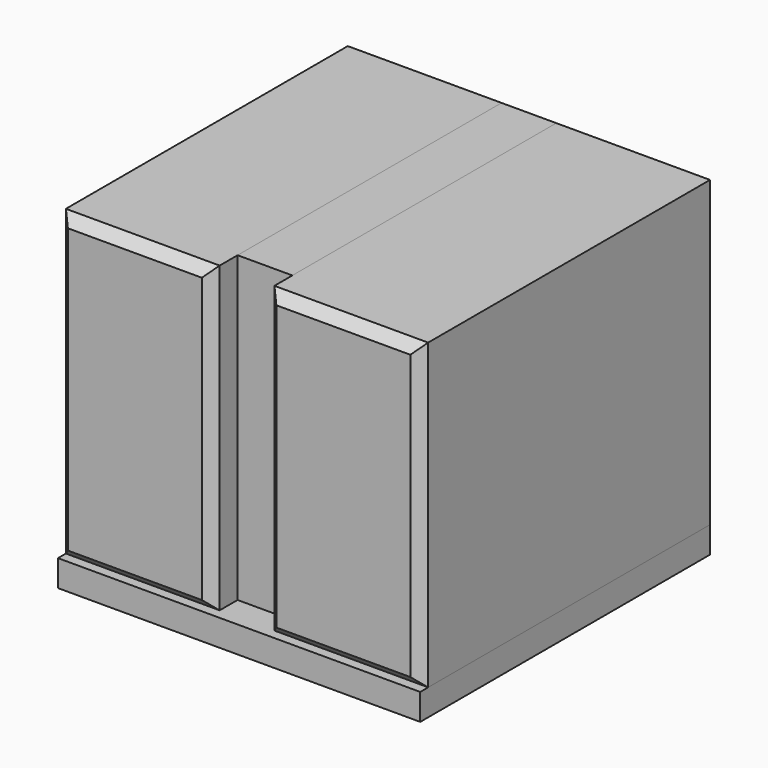
from build123d import *

# Parameters (mm, degrees)
F0_W     = 549
F0_H     = 549
F1_DEPTH = 40
F2_W     = 233
F2_H     = 549
F3_DEPTH = 460
F4_SIZE  = 15
F5_W     = 500
F5_H     = 460
F5_W_2   = 464
F5_H_2   = 424
F6_DEPTH = 83
F8_START = -26
F7_W     = 472
F7_H     = 432
F8_DEPTH = 4


with BuildPart() as f1:
    # F0 (on Top) → F1 (new body)
    with BuildSketch(Plane.XY):
        Rectangle(F0_W, F0_H)
    extrude(amount=F1_DEPTH)


with BuildPart() as f3:
    # F2 (on face) → F3 (new body)
    with BuildSketch(Plane.XY.offset(40)):
        with Locations((-158, 0)):
            Rectangle(F2_W, F2_H)
        with Locations((158, 0)):
            Rectangle(F2_W, F2_H)
    extrude(amount=F3_DEPTH)

    # F4
    f4_edges = [f3.edges().sort_by_distance(p)[0] for p in [
        (41.5, -274.5, 270),
        (274.5, -274.5, 270),
        (158, -274.5, 40),
        (158, -274.5, 500),
        (-274.5, -274.5, 270),
        (-41.5, -274.5, 270),
        (-158, -274.5, 40),
        (-158, -274.5, 500),
    ]]
    chamfer(f4_edges, length=F4_SIZE)


with BuildPart() as f6:
    # F5 (on face) → F6 (new body)
    with BuildSketch(Plane.YZ.offset(-41.5)):
        with Locations((24.5, 270)):
            Rectangle(F5_W, F5_H)
        with Locations((24.5, 270)):
            Rectangle(F5_W_2, F5_H_2, mode=Mode.SUBTRACT)
        with Locations((24.5, 270)):
            Rectangle(F5_W, F5_H)
        with Locations((24.5, 270)):
            Rectangle(F5_W_2, F5_H_2, mode=Mode.SUBTRACT)
    extrude(amount=F6_DEPTH)


with BuildPart() as f8:
    # F7 (on Right) → F8 (new body)
    with BuildSketch(Plane.YZ.offset(F8_START)):
        with Locations((24.5, 270)):
            Rectangle(F7_W, F7_H)
    extrude(amount=-F8_DEPTH)


with BuildPart() as f6_1:
    add(f6.part)

    # F9: cut F8
    add(f8.part, mode=Mode.SUBTRACT)


solid = Compound([f1.part, f3.part, f8.part, f6_1.part])
